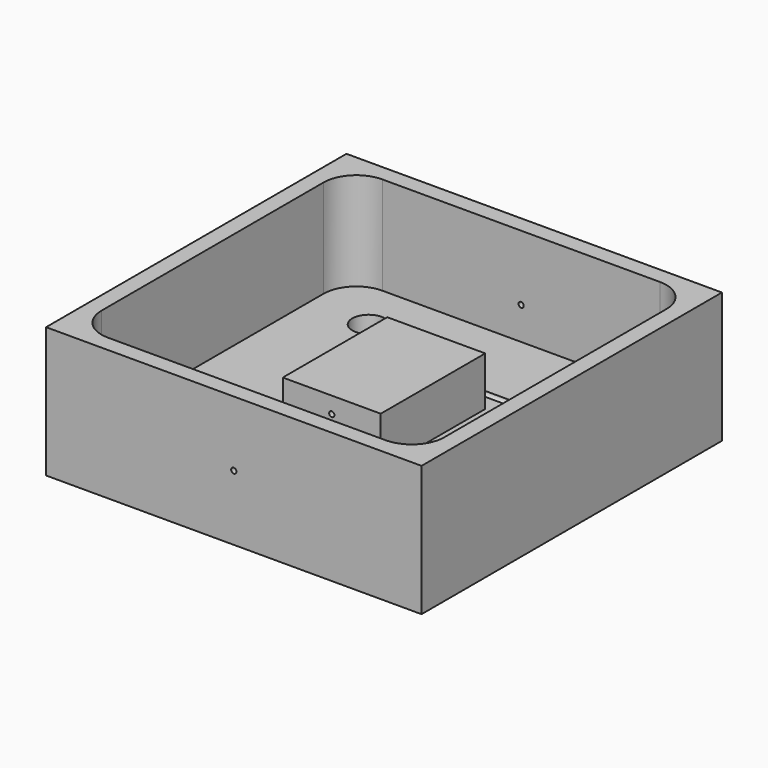
from build123d import *

# Parameters (mm, degrees)
F0_W      = 36.5125
F0_H      = 36.5125
F1_DEPTH  = 12.7
F2_W      = 33.3375
F2_H      = 33.3375
F3_DEPTH  = 9.525
F4_W      = 9.525
F4_H      = 12.7
F5_DEPTH  = 4.7625
F7_D      = 0.508
F7_DEPTH  = 14.2875
F7_TIP    = 0.1526185972
F9_D      = 0.508
F9_DEPTH  = 14.2875
F9_TIP    = 0.1526185972
F10_R     = 3.175
F15_D     = 3.175
F17_DEPTH = 0.79375
F18_R     = 0.508


with BuildPart() as f1:
    # F0 (on Top) → F1 (new body)
    with BuildSketch(Plane.XY):
        Rectangle(F0_W, F0_H)
        Rectangle(F0_W, F0_H)
    extrude(amount=F1_DEPTH)

    # F2 (on face) → F3 (cut)
    with BuildSketch(Plane.XY.offset(12.7)):
        Rectangle(F2_W, F2_H)
    extrude(amount=-F3_DEPTH, mode=Mode.SUBTRACT)

    # F4 (on face) → F5 (join)
    with BuildSketch(Plane.XY.offset(3.175)):
        Rectangle(F4_W, F4_H)
    extrude(amount=F5_DEPTH)

    # F7
    with Locations(Plane.XZ.offset(18.25625)):
        with Locations((0, 6.35)):
            Hole(F7_D / 2, depth=F7_DEPTH)
            with Locations((0, 0, -(F7_DEPTH + F7_TIP / 2))):  # 118° drill point
                Cone(0, F7_D / 2, F7_TIP, mode=Mode.SUBTRACT)

    # F9
    with Locations(Plane(origin=(0, 18.25625, 0), x_dir=(-1, 0, 0), z_dir=(0, 1, 0))):
        with Locations((0, 6.35)):
            Hole(F9_D / 2, depth=F9_DEPTH)
            with Locations((0, 0, -(F9_DEPTH + F9_TIP / 2))):  # 118° drill point
                Cone(0, F9_D / 2, F9_TIP, mode=Mode.SUBTRACT)

    # F10
    f10_edges = [f1.edges().sort_by_distance(p)[0] for p in [
        (-16.66875, 16.66875, 7.9375),
        (-16.66875, -16.66875, 7.9375),
        (16.66875, -16.66875, 7.9375),
        (16.66875, 16.66875, 7.9375),
    ]]
    fillet(f10_edges, radius=F10_R)

    # F13: sweep along a path in F11
    with BuildLine(Plane.XY.offset(3.175)) as f13_path:
        Line((5.1181, -8.2931), (-5.1181, -8.2931))
        ThreePointArc((-5.1181, -8.2931), (-6.2406320151, -7.8281320151), (-6.7056, -6.7056))
        Line((-6.7056, -6.7056), (-6.7056, 0))
        Line((-6.7056, 0), (-6.7056, 6.7056))
        ThreePointArc((-6.7056, 6.7056), (-6.2406320151, 7.8281320151), (-5.1181, 8.2931))
        Line((-5.1181, 8.2931), (5.1181, 8.2931))
        ThreePointArc((5.1181, 8.2931), (6.2406320151, 7.8281320151), (6.7056, 6.7056))
        Line((6.7056, 6.7056), (6.7056, -6.7056))
        ThreePointArc((6.7056, -6.7056), (6.2406320151, -7.8281320151), (5.1181, -8.2931))
    # F12 (on Front) → F13 (sweep, cut)
    with BuildSketch(Plane.XZ):
        with BuildLine():
            Line((-6.3246, 3.175), (-7.0866, 3.175))
            ThreePointArc((-7.0866, 3.175), (-6.7056, 2.794), (-6.3246, 3.175))
        make_face()
    sweep(path=f13_path.line, mode=Mode.SUBTRACT)

    # F15 (through all)
    with Locations(Plane.XY.offset(3.175)):
        with Locations((10.8477650555, -11.6891054078), (10.8477650555, 11.6891054078), (-10.8477650555, 11.6891054078), (-10.8476863706, -11.689040258)):
            Hole(F15_D / 2)

    # F16 (on face) → F17 (join)
    with BuildSketch(Plane.XY.offset(3.175)):
        Polygon((9.2602650555, -0.9165435523), (12.4352650555, -0.9165435523), (10.8477650555, 1.8330871047), align=None)
    extrude(amount=F17_DEPTH)

    # F18
    f18_edges = [f1.edges().sort_by_distance(p)[0] for p in [
        (10.847765, 1.833087, 3.571875),
        (12.435265, -0.916544, 3.571875),
        (9.260265, -0.916544, 3.571875),
    ]]
    fillet(f18_edges, radius=F18_R)


solid = f1.part
